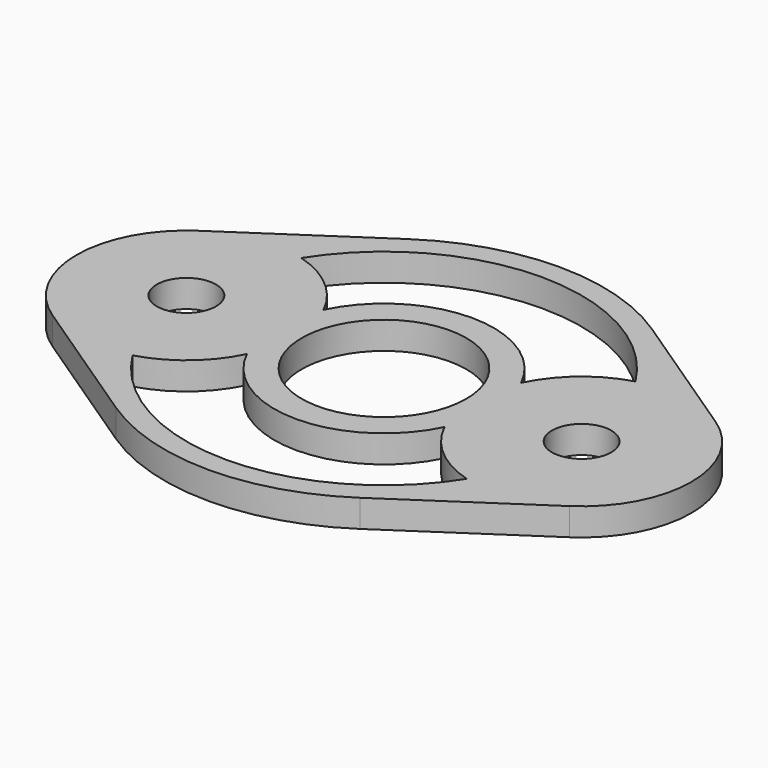
from build123d import *

# Parameters (mm, degrees)
F0_R     = 3.429
F0_R_2   = 9.525
F1_DEPTH = 3.175


with BuildPart() as f1:
    # F0 (on Top) → F1 (new body)
    with BuildSketch(Plane.XY):
        with BuildLine():
            Line((8.748889, 21.119577), (-7.055556, 10.559789))
            ThreePointArc((-7.055556, 10.559789), (-12.7, 0), (-7.055556, -10.559789))
            Line((-7.055556, -10.559789), (8.748889, -21.119577))
            ThreePointArc((8.748889, -21.119577), (22.86, -25.4), (36.971111, -21.119577))
            Line((36.971111, -21.119577), (52.775556, -10.559789))
            ThreePointArc((52.775556, -10.559789), (58.42, 0), (52.775556, 10.559789))
            Line((52.775556, 10.559789), (36.971111, 21.119577))
            ThreePointArc((36.971111, 21.119577), (22.86, 25.4), (8.748889, 21.119577))
        make_face()
        with BuildLine():
            ThreePointArc((42.192222, -12.200196), (22.86, -22.86), (3.527778, -12.200196))
            ThreePointArc((3.527778, -12.200196), (8.187632, -9.708382), (11.43, -5.535802))
            ThreePointArc((11.43, -5.535802), (22.86, -12.7), (34.29, -5.535802))
            ThreePointArc((34.29, -5.535802), (37.532368, -9.708382), (42.192222, -12.200196))
        make_face(mode=Mode.SUBTRACT)
        Circle(F0_R, mode=Mode.SUBTRACT)
        with Locations((22.86, 0)):
            Circle(F0_R_2, mode=Mode.SUBTRACT)
        with Locations((45.72, 0)):
            Circle(F0_R, mode=Mode.SUBTRACT)
        with BuildLine():
            ThreePointArc((42.192222, 12.200196), (37.532368, 9.708382), (34.29, 5.535802))
            ThreePointArc((34.29, 5.535802), (22.86, 12.7), (11.43, 5.535802))
            ThreePointArc((11.43, 5.535802), (8.187632, 9.708382), (3.527778, 12.200196))
            ThreePointArc((3.527778, 12.200196), (22.86, 22.86), (42.192222, 12.200196))
        make_face(mode=Mode.SUBTRACT)
    extrude(amount=F1_DEPTH)


solid = f1.part
